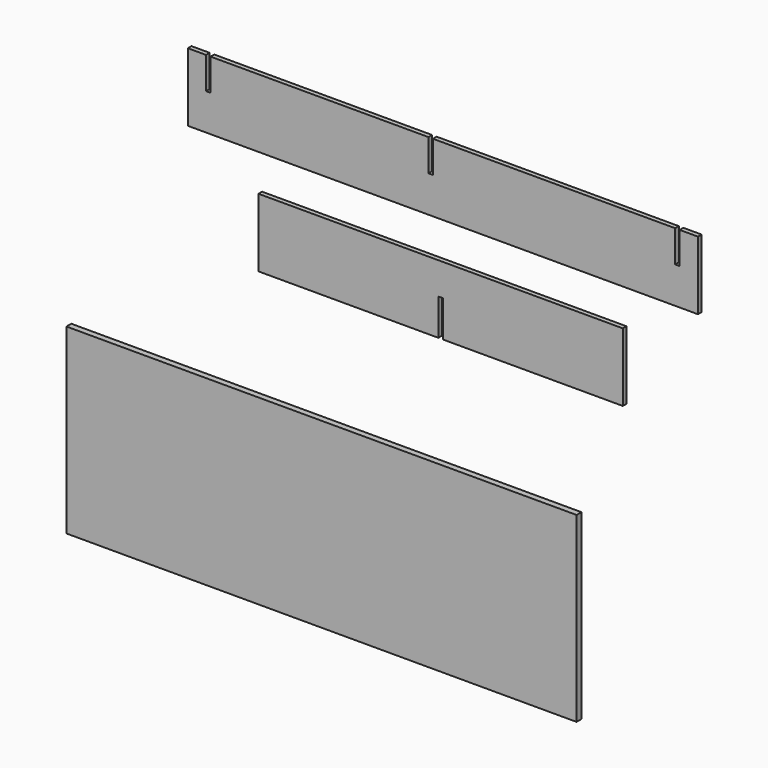
from build123d import *

# Parameters (mm, degrees)
F0_W     = 2133.6
F0_H     = 285.75
F1_DEPTH = 19.05
F2_W     = 19.05
F2_H     = 133.35
F3_DEPTH = 19.051
F4_W     = 1524
F4_H     = 285.75
F5_DEPTH = 19.05
F6_W     = 19.05
F6_H     = 152.4
F7_DEPTH = 19.051
F8_W     = 2133.6
F8_H     = 762
F9_DEPTH = 25.4


with BuildPart() as f1:
    # F0 (on Front) → F1 (new body)
    with BuildSketch(Plane.XZ):
        with Locations((694.29449, -15.187053)):
            Rectangle(F0_W, F0_H)
    extrude(amount=F1_DEPTH)

    # F2 (on face) → F3 (cut, through all)
    with BuildSketch(Plane.XZ.offset(19.05)):
        with Locations((643.49449, 61.012947)):
            Rectangle(F2_W, F2_H)
        with Locations((-286.78051, 61.012947)):
            Rectangle(F2_W, F2_H)
        with Locations((1675.36949, 61.012947)):
            Rectangle(F2_W, F2_H)
    extrude(amount=-F3_DEPTH, mode=Mode.SUBTRACT)


with BuildPart() as f5:
    # F4 (on Front) → F5 (new body)
    with BuildSketch(Plane.XZ):
        with Locations((669.673849, -467.79108)):
            Rectangle(F4_W, F4_H)
    extrude(amount=-F5_DEPTH)

    # F6 (on face) → F7 (cut, through all)
    with BuildSketch(Plane.XZ):
        with Locations((669.673849, -534.46608)):
            Rectangle(F6_W, F6_H)
    extrude(amount=-F7_DEPTH, mode=Mode.SUBTRACT)


with BuildPart() as f9:
    # F8 (on Front) → F9 (new body)
    with BuildSketch(Plane.XZ):
        with Locations((171.459087, -1455.850435)):
            Rectangle(F8_W, F8_H)
    extrude(amount=-F9_DEPTH)


solid = Compound([f1.part, f5.part, f9.part])
